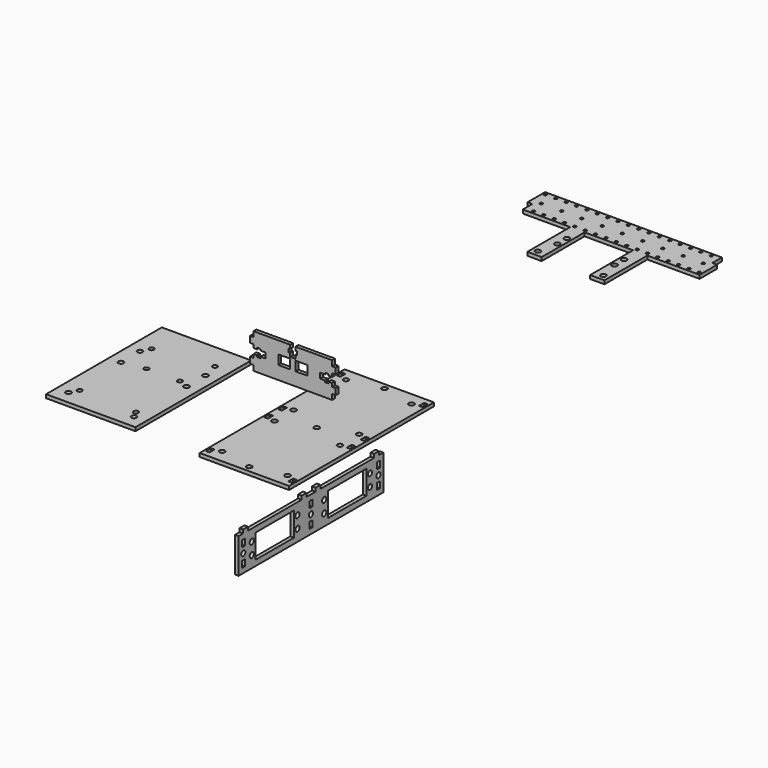
from build123d import *

# Parameters (mm, degrees)
F1_W      = 75
F1_H      = 152
F2_DEPTH  = 1.5
F4_D      = 4.4
F5_W      = 3
F5_H      = 5.3
F5_R      = 2.2
F5_W_2    = 40.6
F5_H_2    = 20.1
F6_DEPTH  = 3
F8_W      = 3
F8_H      = 5.3
F9_DEPTH  = 25
F7_W      = 10
F7_H      = 7.9219676554
F10_DEPTH = 3
F12_R     = 2.2
F12_R_2   = 1.2
F14_DEPTH = 3
F15_W     = 75
F15_H     = 121.4022288322
F15_R     = 2.2
F16_DEPTH = 3
F17_R     = 2
F18_DEPTH = 25


with BuildPart() as f2:
    # F1 (on Top) → F2 (new body, symmetric)
    with BuildSketch(Plane.XY):
        Rectangle(F1_W, F1_H)
    extrude(amount=F2_DEPTH, both=True)

    # F4 (through all)
    with Locations(Plane.XY.offset(1.5)):
        with Locations((0, 0), (0, 71), (0, -71), (27.5, 10), (27.5, -10), (-27.5, -10), (-27.5, 10), (-27.5, 65), (27.5, 65), (-27.5, -65), (27.5, -65)):
            Hole(F4_D / 2)

    # F8 (on face) → F9 (cut)
    with BuildSketch(Plane.XY.offset(1.5)):
        with Locations((34.5, -68.7)):
            Rectangle(F8_W, F8_H)
        with Locations((34.5, -7.3)):
            Rectangle(F8_W, F8_H)
        with Locations((34.5, 7.3)):
            Rectangle(F8_W, F8_H)
        with Locations((34.5, 68.7)):
            Rectangle(F8_W, F8_H)
        with Locations((-34.5, 7.3)):
            Rectangle(F8_W, F8_H)
        with Locations((-34.5, 68.7)):
            Rectangle(F8_W, F8_H)
        with Locations((-34.5, -7.3)):
            Rectangle(F8_W, F8_H)
        with Locations((-34.5, -68.7)):
            Rectangle(F8_W, F8_H)
    extrude(amount=-F9_DEPTH, mode=Mode.SUBTRACT)


with BuildPart() as f6:
    # F5 (on Right) → F6 (new body)
    with BuildSketch(Plane.YZ):
        Polygon((-85.8126764044, -42.805329225), (-85.8126764044, -72.155329225), (66.1873235956, -72.155329225), (66.1873235956, -42.805329225), (61.4873235956, -42.805329225), (61.4873235956, -39.805329225), (56.2873235956, -39.805329225), (56.2873235956, -42.805329225), (0.0873235956, -42.805329225), (0.0873235956, -39.805329225), (-5.1126764044, -39.805329225), (-5.1126764044, -42.805329225), (-14.5126764044, -42.805329225), (-14.5126764044, -39.805329225), (-19.7126764044, -39.805329225), (-19.7126764044, -42.805329225), (-75.9126764044, -42.805329225), (-75.9126764044, -39.805329225), (-81.1126764044, -39.805329225), (-81.1126764044, -42.805329225), align=None)
        with Locations((-80.8126764044, -65.130329225)):
            Rectangle(F5_W, F5_H, mode=Mode.SUBTRACT)
        with Locations((-9.9481364507, -65.130329225)):
            Rectangle(F5_W, F5_H, mode=Mode.SUBTRACT)
        with Locations((-71.9506110203, -62.480329225)):
            Circle(F5_R, mode=Mode.SUBTRACT)
        with Locations((-80.8126764044, -57.480329225)):
            Circle(F5_R, mode=Mode.SUBTRACT)
        with Locations((-47.9506110203, -57.480329225)):
            Rectangle(F5_W_2, F5_H_2, mode=Mode.SUBTRACT)
        with Locations((-23.9506110203, -62.480329225)):
            Circle(F5_R, mode=Mode.SUBTRACT)
        with Locations((-9.9481364507, -57.480329225)):
            Circle(F5_R, mode=Mode.SUBTRACT)
        with Locations((60.916403503, -65.130329225)):
            Rectangle(F5_W, F5_H, mode=Mode.SUBTRACT)
        with Locations((4.0543381189, -62.480329225)):
            Circle(F5_R, mode=Mode.SUBTRACT)
        with Locations((28.0543381189, -57.480329225)):
            Rectangle(F5_W_2, F5_H_2, mode=Mode.SUBTRACT)
        with Locations((52.0543381189, -62.480329225)):
            Circle(F5_R, mode=Mode.SUBTRACT)
        with Locations((60.916403503, -57.480329225)):
            Circle(F5_R, mode=Mode.SUBTRACT)
        with Locations((-71.9506110203, -52.480329225)):
            Circle(F5_R, mode=Mode.SUBTRACT)
        with Locations((-80.8126764044, -49.830329225)):
            Rectangle(F5_W, F5_H, mode=Mode.SUBTRACT)
        with Locations((-23.9506110203, -52.480329225)):
            Circle(F5_R, mode=Mode.SUBTRACT)
        with Locations((-9.9481364507, -49.830329225)):
            Rectangle(F5_W, F5_H, mode=Mode.SUBTRACT)
        with Locations((4.0543381189, -52.480329225)):
            Circle(F5_R, mode=Mode.SUBTRACT)
        with Locations((52.0543381189, -52.480329225)):
            Circle(F5_R, mode=Mode.SUBTRACT)
        with Locations((60.916403503, -49.830329225)):
            Rectangle(F5_W, F5_H, mode=Mode.SUBTRACT)
    extrude(amount=F6_DEPTH)


with BuildPart() as f10:
    # F7 (on Front) → F10 (new body)
    with BuildSketch(Plane.XZ):
        Polygon((-50.7373503895, 47.8737576485), (-50.7373503895, 45.0237576485), (-47.7373503895, 45.0237576485), (-47.7373503895, 46.3237576485), (-44.7373503895, 46.3237576485), (-44.7373503895, 45.0237576485), (-40.7373503895, 45.0237576485), (-40.7373503895, 40.6237576485), (-44.7373503895, 40.6237576485), (-44.7373503895, 39.3237576485), (-47.7373503895, 39.3237576485), (-47.7373503895, 40.6237576485), (-50.7373503895, 40.6237576485), (-50.7373503895, 37.7737576485), (-53.7373503895, 37.7737576485), (-53.7373503895, 32.5737576485), (-50.7373503895, 32.5737576485), (-50.7373503895, 28.1487576485), (-17.7373503895, 28.1487576485), (15.2626496105, 28.1487576485), (15.2626496105, 32.5737576485), (18.2626496105, 32.5737576485), (18.2626496105, 37.7737576485), (15.2626496105, 37.7737576485), (15.2626496105, 40.6237576485), (12.2626496105, 40.6237576485), (12.2626496105, 39.3237576485), (9.2626496105, 39.3237576485), (9.2626496105, 40.6237576485), (5.2626496105, 40.6237576485), (5.2626496105, 45.0237576485), (9.2626496105, 45.0237576485), (9.2626496105, 46.3237576485), (12.2626496105, 46.3237576485), (12.2626496105, 45.0237576485), (15.2626496105, 45.0237576485), (15.2626496105, 47.8737576485), (18.2626496105, 47.8737576485), (18.2626496105, 53.0737576485), (15.2626496105, 53.0737576485), (15.2626496105, 57.4987576485), (-15.5373503895, 57.4987576485), (-15.5373503895, 54.4987576485), (-14.2373503895, 54.4987576485), (-14.2373503895, 51.4987576485), (-15.5373503895, 51.4987576485), (-15.5373503895, 48.4987576485), (-17.7373503895, 48.4987576485), (-19.9373503895, 48.4987576485), (-19.9373503895, 51.4987576485), (-21.2373503895, 51.4987576485), (-21.2373503895, 54.4987576485), (-19.9373503895, 54.4987576485), (-19.9373503895, 57.4987576485), (-50.7373503895, 57.4987576485), (-50.7373503895, 53.0737576485), (-53.7373503895, 53.0737576485), (-53.7373503895, 47.8737576485), align=None)
        with Locations((-24.9373503895, 43.22492145)):
            Rectangle(F7_W, F7_H, mode=Mode.SUBTRACT)
        with Locations((-10.5373503895, 43.22492145)):
            Rectangle(F7_W, F7_H, mode=Mode.SUBTRACT)
    extrude(amount=F10_DEPTH)


with BuildPart() as f14:
    # F12 (on Top) → F14 (new body)
    with BuildSketch(Plane.XY):
        Polygon((6.35, 323.8), (6.35, 278.8), (18.35, 278.8), (18.35, 323.8), (62.2, 323.8), (62.2, 342.2), (58.2, 342.2), (58.2, 352.2), (-90.2, 352.2), (-90.2, 333.8), (-86.2, 333.8), (-86.2, 323.8), (-46.35, 323.8), (-46.35, 278.8), (-34.35, 278.8), (-34.35, 323.8), align=None)
        with Locations((-41.5, 283.8)):
            Circle(F12_R, mode=Mode.SUBTRACT)
        with Locations((-38, 299.8)):
            Circle(F12_R, mode=Mode.SUBTRACT)
        with Locations((-38, 309.8)):
            Circle(F12_R, mode=Mode.SUBTRACT)
        with Locations((13.5, 283.8)):
            Circle(F12_R, mode=Mode.SUBTRACT)
        with Locations((10, 299.8)):
            Circle(F12_R, mode=Mode.SUBTRACT)
        with Locations((10, 309.8)):
            Circle(F12_R, mode=Mode.SUBTRACT)
        with Locations((-79.25, 326.3)):
            Circle(F12_R_2, mode=Mode.SUBTRACT)
        with Locations((-70.55, 326.3)):
            Circle(F12_R_2, mode=Mode.SUBTRACT)
        with Locations((-61.85, 326.3)):
            Circle(F12_R_2, mode=Mode.SUBTRACT)
        with Locations((-53.15, 326.3)):
            Circle(F12_R_2, mode=Mode.SUBTRACT)
        with Locations((-44.45, 326.3)):
            Circle(F12_R_2, mode=Mode.SUBTRACT)
        with Locations((-35.75, 326.3)):
            Circle(F12_R_2, mode=Mode.SUBTRACT)
        with Locations((-27.05, 326.3)):
            Circle(F12_R_2, mode=Mode.SUBTRACT)
        with Locations((-18.35, 326.3)):
            Circle(F12_R_2, mode=Mode.SUBTRACT)
        with Locations((-82, 338)):
            Circle(F12_R_2, mode=Mode.SUBTRACT)
        with Locations((-65, 338)):
            Circle(F12_R_2, mode=Mode.SUBTRACT)
        with Locations((-87.95, 349.7)):
            Circle(F12_R_2, mode=Mode.SUBTRACT)
        with Locations((-79.25, 349.7)):
            Circle(F12_R_2, mode=Mode.SUBTRACT)
        with Locations((-70.55, 349.7)):
            Circle(F12_R_2, mode=Mode.SUBTRACT)
        with Locations((-61.85, 349.7)):
            Circle(F12_R_2, mode=Mode.SUBTRACT)
        with Locations((-53.15, 349.7)):
            Circle(F12_R_2, mode=Mode.SUBTRACT)
        with Locations((-48, 338)):
            Circle(F12_R_2, mode=Mode.SUBTRACT)
        with Locations((-31, 338)):
            Circle(F12_R_2, mode=Mode.SUBTRACT)
        with Locations((-44.45, 349.7)):
            Circle(F12_R_2, mode=Mode.SUBTRACT)
        with Locations((-35.75, 349.7)):
            Circle(F12_R_2, mode=Mode.SUBTRACT)
        with Locations((-27.05, 349.7)):
            Circle(F12_R_2, mode=Mode.SUBTRACT)
        with Locations((-18.35, 349.7)):
            Circle(F12_R_2, mode=Mode.SUBTRACT)
        with Locations((-9.65, 326.3)):
            Circle(F12_R_2, mode=Mode.SUBTRACT)
        with Locations((-0.95, 326.3)):
            Circle(F12_R_2, mode=Mode.SUBTRACT)
        with Locations((7.75, 326.3)):
            Circle(F12_R_2, mode=Mode.SUBTRACT)
        with Locations((16.45, 326.3)):
            Circle(F12_R_2, mode=Mode.SUBTRACT)
        with Locations((25.15, 326.3)):
            Circle(F12_R_2, mode=Mode.SUBTRACT)
        with Locations((33.85, 326.3)):
            Circle(F12_R_2, mode=Mode.SUBTRACT)
        with Locations((42.55, 326.3)):
            Circle(F12_R_2, mode=Mode.SUBTRACT)
        with Locations((51.25, 326.3)):
            Circle(F12_R_2, mode=Mode.SUBTRACT)
        with Locations((59.95, 326.3)):
            Circle(F12_R_2, mode=Mode.SUBTRACT)
        with Locations((-14, 338)):
            Circle(F12_R_2, mode=Mode.SUBTRACT)
        with Locations((3, 338)):
            Circle(F12_R_2, mode=Mode.SUBTRACT)
        with Locations((20, 338)):
            Circle(F12_R_2, mode=Mode.SUBTRACT)
        with Locations((-9.65, 349.7)):
            Circle(F12_R_2, mode=Mode.SUBTRACT)
        with Locations((-0.95, 349.7)):
            Circle(F12_R_2, mode=Mode.SUBTRACT)
        with Locations((7.75, 349.7)):
            Circle(F12_R_2, mode=Mode.SUBTRACT)
        with Locations((16.45, 349.7)):
            Circle(F12_R_2, mode=Mode.SUBTRACT)
        with Locations((37, 338)):
            Circle(F12_R_2, mode=Mode.SUBTRACT)
        with Locations((54, 338)):
            Circle(F12_R_2, mode=Mode.SUBTRACT)
        with Locations((25.15, 349.7)):
            Circle(F12_R_2, mode=Mode.SUBTRACT)
        with Locations((33.85, 349.7)):
            Circle(F12_R_2, mode=Mode.SUBTRACT)
        with Locations((42.55, 349.7)):
            Circle(F12_R_2, mode=Mode.SUBTRACT)
        with Locations((51.25, 349.7)):
            Circle(F12_R_2, mode=Mode.SUBTRACT)
    extrude(amount=F14_DEPTH)


with BuildPart() as f16:
    # F15 (on Top) → F16 (new body)
    with BuildSketch(Plane.XY):
        with Locations((-128.8771313278, -15.2988855839)):
            Rectangle(F15_W, F15_H)
        with Locations((-156.3771313278, -65)):
            Circle(F15_R, mode=Mode.SUBTRACT)
        with Locations((-101.3771313278, -65)):
            Circle(F15_R, mode=Mode.SUBTRACT)
        with Locations((-156.3771313278, -10)):
            Circle(F15_R, mode=Mode.SUBTRACT)
        with Locations((-156.3771313278, 10)):
            Circle(F15_R, mode=Mode.SUBTRACT)
        with Locations((-101.3771313278, -10)):
            Circle(F15_R, mode=Mode.SUBTRACT)
        with Locations((-101.3771313278, 10)):
            Circle(F15_R, mode=Mode.SUBTRACT)
    extrude(amount=F16_DEPTH)

    # F17 (on face) → F18 (cut)
    with BuildSketch(Plane.XY.offset(3)):
        with Locations((-104.604579812, 23.9281769397)):
            Circle(F17_R)
        with Locations((-152.604579812, 17.4281769397)):
            Circle(F17_R)
        with Locations((-137.604579812, -6.6718230603)):
            Circle(F17_R)
        with Locations((-109.604579812, -6.6718230603)):
            Circle(F17_R)
        with Locations((-152.604579812, -58.0718230603)):
            Circle(F17_R)
        with Locations((-104.604579812, -59.0718230603)):
            Circle(F17_R)
    extrude(amount=-F18_DEPTH, mode=Mode.SUBTRACT)


solid = Compound([f2.part, f6.part, f10.part, f14.part, f16.part])
